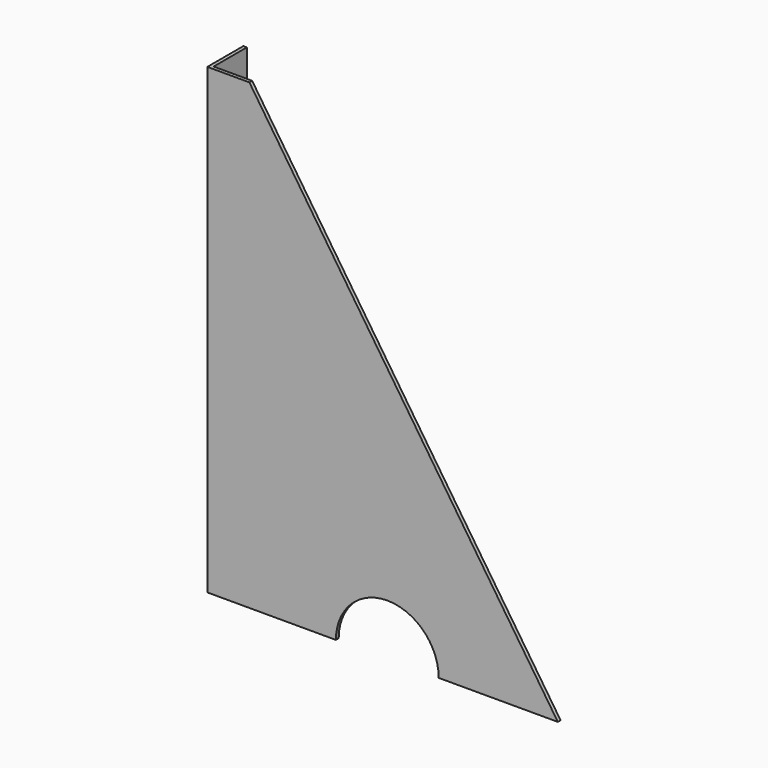
from build123d import *

# Parameters (mm, degrees)
F1_DEPTH = 3.4163
F3_DEPTH = 457.2
F4_R     = 50.8
F5_DEPTH = 25.4


with BuildPart() as f1:
    # F0 (on Front) → F1 (new body)
    with BuildSketch(Plane.XZ):
        Polygon((0, 457.2), (0, 0), (304.8, 0), align=None)
    extrude(amount=F1_DEPTH)

    # F2 (on Top) → F3 (join, through all)
    with BuildSketch(Plane.XY):
        Polygon((0, -3.4163), (0, 0), (-38.1, 0), (-38.1, 41.0337), (-41.5163, 41.0337), (-41.5163, -3.4163), align=None)
    extrude(amount=F3_DEPTH)

    # F4 (on face) → F5 (cut)
    with BuildSketch(Plane.XZ.offset(3.4163)):
        with Locations((136.2837, 0)):
            Circle(F4_R)
    extrude(amount=-F5_DEPTH, mode=Mode.SUBTRACT)


solid = f1.part
